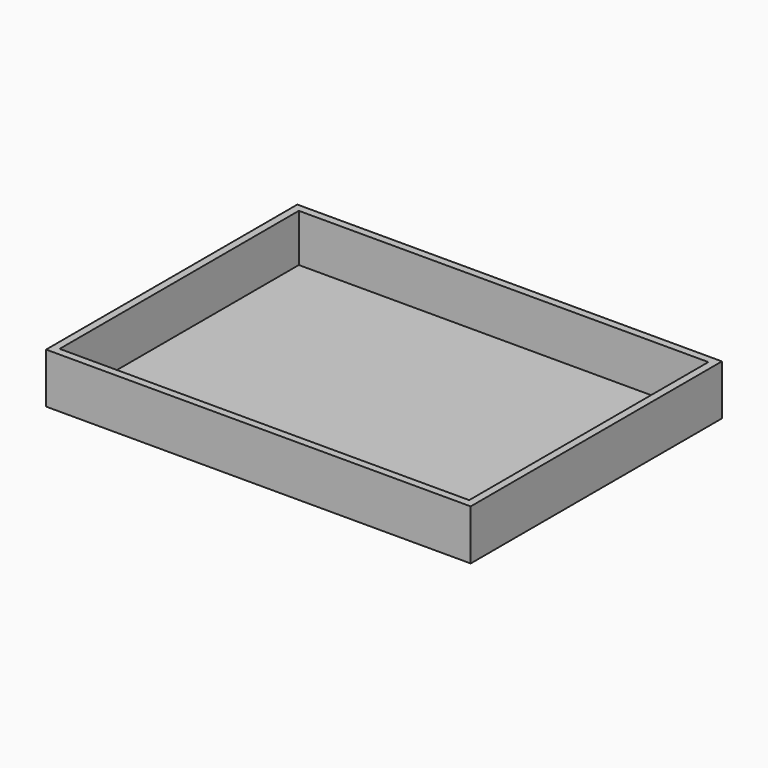
from build123d import *

# Parameters (mm, degrees)
F0_W     = 326
F0_H     = 238
F0_W_2   = 74
F0_H_2   = 110
F0_W_3   = 80
F1_DEPTH = 2
F2_DEPTH = 4
F0_W_4   = 338
F0_H_3   = 250
F3_DEPTH = 40


with BuildPart() as f1:
    # F0 (on Top) → F1 (new body)
    with BuildSketch(Plane.XY):
        with Locations((80, 0)):
            Rectangle(F0_W, F0_H)
        with Locations((-40, -58)):
            Rectangle(F0_W_2, F0_H_2, mode=Mode.SUBTRACT)
        with Locations((40, -58)):
            Rectangle(F0_W_2, F0_H_2, mode=Mode.SUBTRACT)
        with Locations((123, -58)):
            Rectangle(F0_W_3, F0_H_2, mode=Mode.SUBTRACT)
        with Locations((-40, 58)):
            Rectangle(F0_W_2, F0_H_2, mode=Mode.SUBTRACT)
        with Locations((40, 58)):
            Rectangle(F0_W_2, F0_H_2, mode=Mode.SUBTRACT)
        with Locations((123, 58)):
            Rectangle(F0_W_3, F0_H_2, mode=Mode.SUBTRACT)
        with Locations((123, -58)):
            Rectangle(F0_W_3, F0_H_2)
        with Locations((123, 58)):
            Rectangle(F0_W_3, F0_H_2)
        with Locations((40, 58)):
            Rectangle(F0_W_2, F0_H_2)
        with Locations((40, -58)):
            Rectangle(F0_W_2, F0_H_2)
        with Locations((-40, -58)):
            Rectangle(F0_W_2, F0_H_2)
        with Locations((-40, 58)):
            Rectangle(F0_W_2, F0_H_2)
    extrude(amount=F1_DEPTH)

    # F0 (on Top) → F2 (join)
    with BuildSketch(Plane.XY):
        with Locations((123, -58)):
            Rectangle(F0_W_3, F0_H_2)
        with Locations((40, -58)):
            Rectangle(F0_W_2, F0_H_2)
        with Locations((-40, -58)):
            Rectangle(F0_W_2, F0_H_2)
        with Locations((123, 58)):
            Rectangle(F0_W_3, F0_H_2)
        with Locations((40, 58)):
            Rectangle(F0_W_2, F0_H_2)
        with Locations((-40, 58)):
            Rectangle(F0_W_2, F0_H_2)
    extrude(amount=-F2_DEPTH)

    # F0 (on Top) → F3 (join)
    with BuildSketch(Plane.XY):
        with Locations((80, 0)):
            Rectangle(F0_W_4, F0_H_3)
        with Locations((80, 0)):
            Rectangle(F0_W, F0_H, mode=Mode.SUBTRACT)
    extrude(amount=F3_DEPTH)


solid = f1.part
